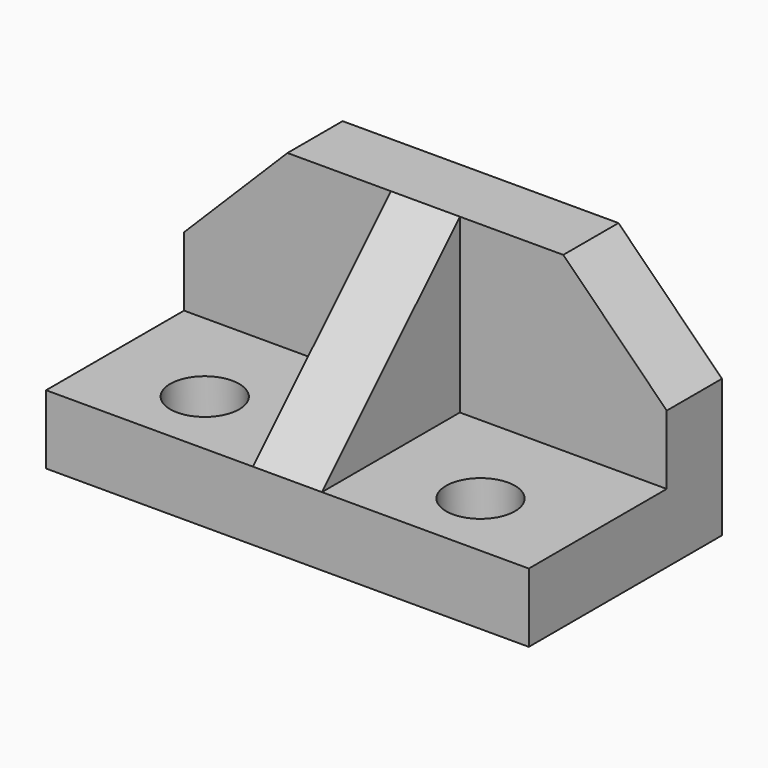
from build123d import *

# Parameters (mm, degrees)
F0_W     = 70
F0_H     = 10
F1_DEPTH = 35
F3_DEPTH = 25
F2_W     = 10
F2_H     = 25
F4_DEPTH = 25
F6_DEPTH = 10
F2_R     = 5
F7_DEPTH = 25
F9_DEPTH = 25


with BuildPart() as f1:
    # F0 (on Front) → F1 (new body)
    with BuildSketch(Plane.XZ):
        with Locations((8.497486, -6.507209)):
            Rectangle(F0_W, F0_H)
    extrude(amount=-F1_DEPTH)

    # F2 (on face) → F3 (join)
    with BuildSketch(Plane.XY.offset(-1.507209)):
        Polygon((43.497486, 35), (-26.502514, 35), (-26.502514, 25), (3.497486, 25), (13.497486, 25), (43.497486, 25), align=None)
    extrude(amount=F3_DEPTH)

    # F2 (on face) → F4 (join)
    with BuildSketch(Plane.XY.offset(-1.507209)):
        with Locations((8.497486, 12.5)):
            Rectangle(F2_W, F2_H)
    extrude(amount=F4_DEPTH)

    # F5 (on face) → F6 (cut, through all)
    with BuildSketch(Plane(origin=(3.497486, 0, 0), x_dir=(0, -1, 0), z_dir=(-1, 0, 0))):
        Polygon((0, 23.492791), (-25, 23.492791), (0, -1.507209), align=None)
    extrude(amount=-F6_DEPTH, mode=Mode.SUBTRACT)

    # F2 (on face) → F7 (cut)
    with BuildSketch(Plane.XY.offset(-1.507209)):
        with Locations((28.497486, 10)):
            Circle(F2_R)
        with Locations((-11.502514, 10)):
            Circle(F2_R)
    extrude(amount=-F7_DEPTH, mode=Mode.SUBTRACT)

    # F8 (on face) → F9 (cut)
    with BuildSketch(Plane.XZ.offset(-25)):
        Polygon((43.497486, 8.492791), (43.497486, 23.492791), (28.497486, 23.492791), align=None)
        Polygon((-11.502514, 23.492791), (-26.502514, 23.492791), (-26.502514, 8.492791), align=None)
    extrude(amount=-F9_DEPTH, mode=Mode.SUBTRACT)


solid = f1.part
